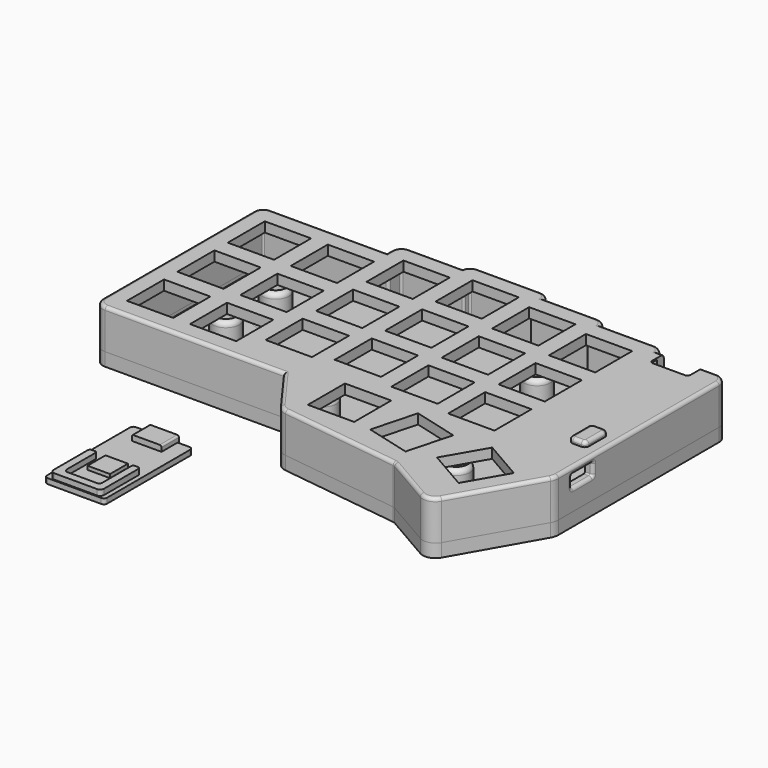
from build123d import *

# Parameters (mm, degrees)
PAD_DEPTH       = 4
POCKET_DEPTH    = 2
SKETCH119_R     = 4
PAD030_DEPTH    = 9
SKETCH118_R     = 3
POCKET028_DEPTH = 10
SKETCH120_R     = 1.9
PAD031_DEPTH    = 1.5
SKETCH121_R     = 1.39
POCKET029_DEPTH = 12.501
FILLET009_R     = 2
SKETCH125_R     = 5
POCKET030_DEPTH = 0.44
FILLET013_R     = 1.5
FILLET015_R     = 1.2
PAD028_DEPTH    = 13
POCKET021_DEPTH = 10
FILLET003_R     = 1
SKETCH111_W     = 14
SKETCH111_H     = 14
POCKET022_DEPTH = 3
POCKET023_DEPTH = 2.5
POCKET024_DEPTH = 2.5
POCKET025_DEPTH = 5
POCKET026_DEPTH = 5
FILLET_R        = 1
FILLET006_R     = 1
SKETCH079_R     = 3.331372
SKETCH079_R_2   = 1.7
SKETCH079_R_3   = 3.300093
SKETCH079_R_4   = 3.395712
SKETCH079_R_5   = 3.457296
PAD032_DEPTH    = 1.5
SKETCH126_R     = 1.7
POCKET031_DEPTH = 3
POCKET035_DEPTH = 5
SKETCH142_R     = 2
SKETCH142_R_2   = 1.7
POCKET036_DEPTH = 1
PAD034_DEPTH    = 1.6
SKETCH130_W     = 9
SKETCH130_H     = 6.1
POCKET032_DEPTH = 1.601
PAD035_DEPTH    = 6.6
SKETCH132_W     = 6.8
SKETCH132_H     = 6.8
PAD036_DEPTH    = 1.1
PAD037_DEPTH    = 3
SKETCH135_R     = 1.9
PAD038_DEPTH    = 0.9
SKETCH136_R     = 0.9
PAD039_DEPTH    = 4.9
FILLET011_R     = 0.2
POCKET034_DEPTH = 0.6
FILLET012_R     = 0.2
PAD040_DEPTH    = 2.5
PAD041_DEPTH    = 0.3
FILLET014_R     = 1


with BuildPart() as bottom:
    # Sketch108 → Pad (new body)
    with BuildSketch(Plane.XY.offset(8)):
        with BuildLine():
            Line((-0.575516, 59.75), (34.48, 59.75))
            Line((34.48, 59.75), (34.48, 61.417541))
            ThreePointArc((37.562459, 64.5), (35.382831, 63.597169), (34.48, 61.417541))
            Line((37.562459, 64.5), (53.574573, 64.5))
            ThreePointArc((56.476936, 66.75), (54.640757, 66.121623), (53.574573, 64.5))
            Line((56.476936, 66.75), (75.451105, 66.75))
            ThreePointArc((78.378139, 64.5), (77.297048, 66.1225), (75.451105, 66.75))
            Line((78.378139, 64.5), (94.392355, 64.5))
            ThreePointArc((97.364207, 62.25), (96.256115, 63.874052), (94.392355, 64.5))
            Line((97.364207, 62.25), (113.446584, 62.25))
            ThreePointArc((116.377091, 60), (115.293904, 61.622622), (113.446584, 62.25))
            Line((116.377091, 60), (134.174054, 60))
            ThreePointArc((137.23, 56.944054), (136.334934, 59.104934), (134.174054, 60))
            Line((137.23, 56.944054), (137.23, -3.799623))
            ThreePointArc((136.644911, -6.01003), (137.081252, -4.942889), (137.23, -3.799623))
            Line((136.644911, -6.01003), (122.927423, -30.106163))
            ThreePointArc((117.617268, -31.543823), (120.571558, -31.930167), (122.927423, -30.106163))
            Line((117.617268, -31.543823), (103.225679, -23.218082))
            ThreePointArc((103.225679, -23.218082), (102.921924, -23.080356), (102.597044, -23.004934))
            Line((102.597044, -23.004934), (66.238919, -18.276385))
            ThreePointArc((63.525255, -16.668331), (64.716751, -17.751369), (66.238919, -18.276385))
            Line((63.525255, -16.668331), (53.919223, -3.5))
            Line((53.919223, -3.5), (-0.150389, -3.5))
            ThreePointArc((-3.5, -0.150389), (-2.518922, -2.518922), (-0.150389, -3.5))
            Line((-3.5, -0.150389), (-3.5, 56.825516))
            ThreePointArc((-0.575516, 59.75), (-2.643438, 58.893438), (-3.5, 56.825516))
        make_face()
    extrude(amount=PAD_DEPTH)

    # Sketch058 (on Face28 of Pad) → Pocket (cut)
    with BuildSketch(Plane.XY.offset(12)):
        with BuildLine():
            Line((-0.575516, 57.25), (36.216867, 57.25))
            ThreePointArc((36.216867, 57.25), (36.756484, 57.473516), (36.98, 58.013133))
            Line((36.98, 58.013133), (36.98, 61.417541))
            ThreePointArc((37.562459, 62), (37.150598, 61.829402), (36.98, 61.417541))
            Line((37.562459, 62), (55.416409, 62))
            ThreePointArc((55.416409, 62), (55.814928, 62.165072), (55.98, 62.563591))
            Line((55.98, 62.563591), (55.98, 63.753064))
            ThreePointArc((56.476936, 64.25), (56.125549, 64.104451), (55.98, 63.753064))
            Line((56.476936, 64.25), (75.451105, 64.25))
            ThreePointArc((75.98, 63.721105), (75.82509, 64.09509), (75.451105, 64.25))
            Line((75.98, 63.721105), (75.98, 62.491748))
            ThreePointArc((75.98, 62.491748), (76.12403, 62.14403), (76.471748, 62))
            Line((76.471748, 62), (94.392355, 62))
            ThreePointArc((94.98, 61.412355), (94.807883, 61.827883), (94.392355, 62))
            Line((94.98, 61.412355), (94.98, 60.193253))
            ThreePointArc((94.98, 60.193253), (95.109826, 59.879826), (95.423253, 59.75))
            Line((95.423253, 59.75), (113.446584, 59.75))
            ThreePointArc((113.98, 59.216584), (113.823766, 59.593766), (113.446584, 59.75))
            Line((113.98, 59.216584), (113.98, 57.753983))
            ThreePointArc((113.98, 57.753983), (114.05439, 57.57439), (114.233983, 57.5))
            Line((114.233983, 57.5), (134.174054, 57.5))
            ThreePointArc((134.73, 56.944054), (134.567167, 57.337167), (134.174054, 57.5))
            Line((134.73, 56.944054), (134.73, -3.799623))
            ThreePointArc((134.472296, -4.7732), (134.664484, -4.303176), (134.73, -3.799623))
            Line((134.472296, -4.7732), (120.754809, -28.869334))
            ThreePointArc((118.869156, -29.379851), (119.918234, -29.517043), (120.754809, -28.869334))
            Line((118.869156, -29.379851), (104.477568, -21.05411))
            ThreePointArc((104.477568, -21.05411), (103.724696, -20.71275), (102.919466, -20.525812))
            Line((102.919466, -20.525812), (66.56134, -15.797263))
            ThreePointArc((65.544973, -15.194987), (65.991232, -15.600625), (66.56134, -15.797263))
            Line((65.544973, -15.194987), (55.506924, -1.434431))
            ThreePointArc((55.506924, -1.434431), (55.131639, -1.114841), (54.652277, -1))
            Line((54.652277, -1), (-0.150389, -1))
            ThreePointArc((-1, -0.150389), (-0.751155, -0.751155), (-0.150389, -1))
            Line((-1, -0.150389), (-1, 56.825516))
            ThreePointArc((-0.575516, 57.25), (-0.875672, 57.125672), (-1, 56.825516))
        make_face()
    extrude(amount=-POCKET_DEPTH, mode=Mode.SUBTRACT)

    # Sketch119 (on Face65 of Pocket) → Pad030 (join)
    with BuildSketch(Plane.XY.offset(10)):
        with Locations((18.610502, 37.490503)):
            Circle(SKETCH119_R)
        with Locations((18.589413, 18.74788)):
            Circle(SKETCH119_R)
        with Locations((61.833103, 1.49994)):
            Circle(SKETCH119_R)
        with Locations((108.311136, -6.255085)):
            Circle(SKETCH119_R)
        with Locations((94.543887, 41.486972)):
            Circle(SKETCH119_R)
    extrude(amount=PAD030_DEPTH)

    # Sketch118 (on Face4 of Pad030) → Pocket028 (cut)
    with BuildSketch(Plane.XY.offset(8)):
        with Locations((18.610502, 37.490503)):
            Circle(SKETCH118_R)
        with Locations((18.589413, 18.74788)):
            Circle(SKETCH118_R)
        with Locations((61.833103, 1.49994)):
            Circle(SKETCH118_R)
        with Locations((108.311136, -6.255085)):
            Circle(SKETCH118_R)
        with Locations((94.543887, 41.486972)):
            Circle(SKETCH118_R)
    extrude(amount=POCKET028_DEPTH, mode=Mode.SUBTRACT)

    # Sketch120 (on Face83 of Pocket028) → Pad031 (join)
    with BuildSketch(Plane.XY.offset(19)):
        with Locations((18.589413, 18.74788)):
            Circle(SKETCH120_R)
        with Locations((18.610502, 37.490503)):
            Circle(SKETCH120_R)
        with Locations((94.543887, 41.486972)):
            Circle(SKETCH120_R)
        with Locations((108.311136, -6.255085)):
            Circle(SKETCH120_R)
        with Locations((61.833103, 1.49994)):
            Circle(SKETCH120_R)
    extrude(amount=PAD031_DEPTH)

    # Sketch121 (on Face94 of Pad031) → Pocket029 (cut, through all)
    with BuildSketch(Plane.XY.offset(20.5)):
        with Locations((18.610502, 37.490503)):
            Circle(SKETCH121_R)
        with Locations((18.589413, 18.74788)):
            Circle(SKETCH121_R)
        with Locations((94.543887, 41.486972)):
            Circle(SKETCH121_R)
        with Locations((61.833103, 1.49994)):
            Circle(SKETCH121_R)
        with Locations((108.311136, -6.255085)):
            Circle(SKETCH121_R)
    extrude(amount=-POCKET029_DEPTH, mode=Mode.SUBTRACT)

    # Fillet009
    fillet009_edges = [bottom.edges().sort_by_distance(p)[0] for p in [
        (14.589413, 18.74788, 10),
        (90.543887, 41.486972, 10),
        (57.833103, 1.49994, 10),
        (104.311136, -6.255085, 10),
        (14.610502, 37.490503, 10),
    ]]
    fillet(fillet009_edges, radius=FILLET009_R)

    # Sketch125 (on Face4 of Pocket029) → Pocket030 (cut)
    with BuildSketch(Plane(origin=(0, 0, 8), x_dir=(1, 0, 0), z_dir=(0, 0, -1))):
        with Locations((5.419504, -5.470643)):
            Circle(SKETCH125_R)
        with Locations((5.419504, -50.996956)):
            Circle(SKETCH125_R)
        with Locations((69.720607, -25.963334)):
            Circle(SKETCH125_R)
        with Locations((115.074272, 17.04775)):
            Circle(SKETCH125_R)
        with Locations((123.885826, -50.017891)):
            Circle(SKETCH125_R)
    extrude(amount=-POCKET030_DEPTH, mode=Mode.SUBTRACT)

    # Fillet013
    fillet013_edges = [bottom.edges().sort_by_distance(p)[0] for p in [
        (14.589413, 18.74788, 19),
        (57.833103, 1.49994, 19),
        (14.610502, 37.490503, 19),
        (104.311136, -6.255085, 19),
        (90.543887, 41.486972, 19),
    ]]
    fillet(fillet013_edges, radius=FILLET013_R)

    # Fillet015
    fillet015_edges = [bottom.edges().sort_by_distance(p)[0] for p in [
        (91.543887, 41.486972, 8),
        (15.610502, 37.490503, 8),
        (15.589413, 18.74788, 8),
        (58.833103, 1.49994, 8),
        (105.311136, -6.255085, 8),
    ]]
    fillet(fillet015_edges, radius=FILLET015_R)


with BuildPart() as bottom_1:
    # Body007 placement: moved
    add(bottom.part.moved(Location((0, 0, -3))))


with BuildPart() as top:
    # Sketch110 → Pad028 (new body)
    with BuildSketch(Plane.XY.offset(8)):
        with BuildLine():
            Line((-0.575516, 59.75), (34.48, 59.75))
            Line((34.48, 59.75), (34.48, 61.417541))
            ThreePointArc((37.562459, 64.5), (35.382831, 63.597169), (34.48, 61.417541))
            Line((37.562459, 64.5), (53.574573, 64.5))
            ThreePointArc((56.476936, 66.75), (54.640757, 66.121623), (53.574573, 64.5))
            Line((56.476936, 66.75), (75.451105, 66.75))
            ThreePointArc((78.378139, 64.5), (77.297048, 66.1225), (75.451105, 66.75))
            Line((78.378139, 64.5), (94.392355, 64.5))
            ThreePointArc((97.364207, 62.25), (96.256115, 63.874052), (94.392355, 64.5))
            Line((97.364207, 62.25), (113.446584, 62.25))
            ThreePointArc((116.377091, 60), (115.293904, 61.622622), (113.446584, 62.25))
            Line((116.377091, 60), (134.174054, 60))
            ThreePointArc((137.23, 56.944054), (136.334934, 59.104934), (134.174054, 60))
            Line((137.23, 56.944054), (137.23, -3.799623))
            ThreePointArc((136.644911, -6.01003), (137.081252, -4.942889), (137.23, -3.799623))
            Line((136.644911, -6.01003), (122.927423, -30.106163))
            ThreePointArc((117.617268, -31.543823), (120.571558, -31.930167), (122.927423, -30.106163))
            Line((117.617268, -31.543823), (103.225679, -23.218082))
            ThreePointArc((103.225679, -23.218082), (102.921924, -23.080356), (102.597044, -23.004934))
            Line((102.597044, -23.004934), (66.238919, -18.276385))
            ThreePointArc((63.525255, -16.668331), (64.716751, -17.751369), (66.238919, -18.276385))
            Line((63.525255, -16.668331), (53.919223, -3.5))
            Line((53.919223, -3.5), (-0.150389, -3.5))
            ThreePointArc((-3.5, -0.150389), (-2.518922, -2.518922), (-0.150389, -3.5))
            Line((-3.5, -0.150389), (-3.5, 56.825516))
            ThreePointArc((-0.575516, 59.75), (-2.643438, 58.893438), (-3.5, 56.825516))
        make_face()
    extrude(amount=PAD028_DEPTH)

    # Sketch109 (on Face28 of Pad028) → Pocket021 (cut)
    with BuildSketch(Plane.XY.offset(8)):
        with BuildLine():
            Line((-0.575516, 57.25), (36.216867, 57.25))
            ThreePointArc((36.216867, 57.25), (36.756484, 57.473516), (36.98, 58.013133))
            Line((36.98, 58.013133), (36.98, 61.417541))
            ThreePointArc((37.562459, 62), (37.150598, 61.829402), (36.98, 61.417541))
            Line((37.562459, 62), (55.416409, 62))
            ThreePointArc((55.416409, 62), (55.814928, 62.165072), (55.98, 62.563591))
            Line((55.98, 62.563591), (55.98, 63.753064))
            ThreePointArc((56.476936, 64.25), (56.125549, 64.104451), (55.98, 63.753064))
            Line((56.476936, 64.25), (75.451105, 64.25))
            ThreePointArc((75.98, 63.721105), (75.82509, 64.09509), (75.451105, 64.25))
            Line((75.98, 63.721105), (75.98, 62.491748))
            ThreePointArc((75.98, 62.491748), (76.12403, 62.14403), (76.471748, 62))
            Line((76.471748, 62), (94.392355, 62))
            ThreePointArc((94.98, 61.412355), (94.807883, 61.827883), (94.392355, 62))
            Line((94.98, 61.412355), (94.98, 60.193253))
            ThreePointArc((94.98, 60.193253), (95.109826, 59.879826), (95.423253, 59.75))
            Line((95.423253, 59.75), (113.446584, 59.75))
            ThreePointArc((113.98, 59.216584), (113.823766, 59.593766), (113.446584, 59.75))
            Line((113.98, 59.216584), (113.98, 57.753983))
            ThreePointArc((113.98, 57.753983), (114.05439, 57.57439), (114.233983, 57.5))
            Line((114.233983, 57.5), (134.174054, 57.5))
            ThreePointArc((134.73, 56.944054), (134.567167, 57.337167), (134.174054, 57.5))
            Line((134.73, 56.944054), (134.73, -3.799623))
            ThreePointArc((134.472296, -4.7732), (134.664484, -4.303176), (134.73, -3.799623))
            Line((134.472296, -4.7732), (120.754809, -28.869334))
            ThreePointArc((118.869156, -29.379851), (119.918234, -29.517043), (120.754809, -28.869334))
            Line((118.869156, -29.379851), (104.477568, -21.05411))
            ThreePointArc((104.477568, -21.05411), (103.724696, -20.71275), (102.919466, -20.525812))
            Line((102.919466, -20.525812), (66.56134, -15.797263))
            ThreePointArc((65.544973, -15.194987), (65.991232, -15.600625), (66.56134, -15.797263))
            Line((65.544973, -15.194987), (55.506924, -1.434431))
            ThreePointArc((55.506924, -1.434431), (55.131639, -1.114841), (54.652277, -1))
            Line((54.652277, -1), (-0.150389, -1))
            ThreePointArc((-1, -0.150389), (-0.751155, -0.751155), (-0.150389, -1))
            Line((-1, -0.150389), (-1, 56.825516))
            ThreePointArc((-0.575516, 57.25), (-0.875672, 57.125672), (-1, 56.825516))
        make_face()
    extrude(amount=POCKET021_DEPTH, mode=Mode.SUBTRACT)

    # Fillet003
    fillet003_edges = [top.edges().sort_by_distance(p)[0] for p in [
        (26.884417, -3.5, 21),
        (-2.518922, -2.518922, 21),
        (-3.5, 28.337563, 21),
        (58.722239, -10.084165, 21),
        (64.716751, -17.751369, 21),
        (84.417981, -20.640659, 21),
        (102.921924, -23.080356, 21),
        (110.421473, -27.380952, 21),
        (120.571558, -31.930167, 21),
        (129.786167, -18.058096, 21),
        (137.081252, -4.942889, 21),
        (137.23, 26.572216, 21),
        (136.334934, 59.104934, 21),
        (125.275573, 60, 21),
        (115.293904, 61.622622, 21),
        (105.405395, 62.25, 21),
        (96.256115, 63.874052, 21),
        (86.385247, 64.5, 21),
        (77.297048, 66.1225, 21),
        (65.964021, 66.75, 21),
        (54.640757, 66.121623, 21),
        (45.568516, 64.5, 21),
        (35.382831, 63.597169, 21),
        (34.48, 60.58377, 21),
        (16.952242, 59.75, 21),
        (-2.643438, 58.893438, 21),
    ]]
    fillet(fillet003_edges, radius=FILLET003_R)

    # Sketch111 (on Face8 of Fillet003) → Pocket022 (cut)
    with BuildSketch(Plane.XY.offset(21)):
        with Locations((75.62, -5.79)):
            Rectangle(SKETCH111_W, SKETCH111_H)
        Polygon((91.629303, 0.089303), (105.156052, -3.52), (101.546749, -17.046749), (88.02, -13.437445), align=None)
        Polygon((116.274632, -2.66), (128.398988, -9.66), (121.398988, -21.784355), (109.276749, -14.785577), align=None)
        with Locations((9.02, 47.16)):
            Rectangle(SKETCH111_W, SKETCH111_H)
        with Locations((9.02, 9.06)):
            Rectangle(SKETCH111_W, SKETCH111_H)
        with Locations((28.07, 47.16)):
            Rectangle(SKETCH111_W, SKETCH111_H)
        with Locations((28.07, 9.06)):
            Rectangle(SKETCH111_W, SKETCH111_H)
        with Locations((9.02, 28.11)):
            Rectangle(SKETCH111_W, SKETCH111_H)
        with Locations((47.12, 51.97)):
            Rectangle(SKETCH111_W, SKETCH111_H)
        with Locations((47.12, 13.87)):
            Rectangle(SKETCH111_W, SKETCH111_H)
        with Locations((66.17, 54.27)):
            Rectangle(SKETCH111_W, SKETCH111_H)
        with Locations((66.17, 16.17)):
            Rectangle(SKETCH111_W, SKETCH111_H)
        with Locations((85.22, 51.87)):
            Rectangle(SKETCH111_W, SKETCH111_H)
        with Locations((85.22, 13.77)):
            Rectangle(SKETCH111_W, SKETCH111_H)
        with Locations((104.27, 49.54)):
            Rectangle(SKETCH111_W, SKETCH111_H)
        with Locations((47.12, 32.92)):
            Rectangle(SKETCH111_W, SKETCH111_H)
        with Locations((66.17, 35.22)):
            Rectangle(SKETCH111_W, SKETCH111_H)
        with Locations((28.07, 28.11)):
            Rectangle(SKETCH111_W, SKETCH111_H)
        with Locations((104.27, 30.49)):
            Rectangle(SKETCH111_W, SKETCH111_H)
        with Locations((104.27, 11.44)):
            Rectangle(SKETCH111_W, SKETCH111_H)
        with Locations((85.22, 32.82)):
            Rectangle(SKETCH111_W, SKETCH111_H)
    extrude(amount=-POCKET022_DEPTH, mode=Mode.SUBTRACT)

    # Sketch114 (on Face31 of Pocket022) → Pocket023 (cut)
    with BuildSketch(Plane(origin=(137.23, 0, 8), x_dir=(0, 1, 0), z_dir=(1, 0, 0))):
        with BuildLine():
            Line((1.24469, 10.438636), (1.24469, 7.69946))
            ThreePointArc((1.24469, 7.69946), (1.361847, 7.416618), (1.64469, 7.29946))
            Line((1.64469, 7.29946), (8.89469, 7.29946))
            ThreePointArc((8.89469, 7.29946), (9.177533, 7.416618), (9.29469, 7.69946))
            Line((9.29469, 10.438636), (9.29469, 7.69946))
            ThreePointArc((9.29469, 10.438636), (9.177533, 10.721479), (8.89469, 10.838636))
            Line((1.64469, 10.838636), (8.89469, 10.838636))
            ThreePointArc((1.64469, 10.838636), (1.361847, 10.721479), (1.24469, 10.438636))
        make_face()
    extrude(amount=-POCKET023_DEPTH, mode=Mode.SUBTRACT)

    # Sketch115 (on Face183 of Pocket023) → Pocket024 (cut)
    with BuildSketch(Plane(origin=(0, 0, 18), x_dir=(1, 0, 0), z_dir=(0, 0, -1))):
        with BuildLine():
            ThreePointArc((134.174054, -57.5), (134.567167, -57.337167), (134.73, -56.944054))
            Line((134.73, -1.229511), (134.73, -56.944054))
            ThreePointArc((134.73, -1.229511), (120.699206, -7.153829), (114.919113, -21.244651))
            Line((114.919113, -21.244651), (114.919113, -57.5))
            Line((114.919113, -57.5), (134.174054, -57.5))
        make_face()
    extrude(amount=-POCKET024_DEPTH, mode=Mode.SUBTRACT)

    # Sketch116 (on Face28 of Pocket024) → Pocket025 (cut)
    with BuildSketch(Plane(origin=(0, 60, 8), x_dir=(-1, 0, 0), z_dir=(0, 1, 0))):
        with BuildLine():
            Line((-129.964948, 12.045402), (-119.170193, 12.045402))
            ThreePointArc((-118.364948, 11.240157), (-118.600799, 11.809551), (-119.170193, 12.045402))
            Line((-118.364948, 11.240157), (-118.364948, 7.850647))
            ThreePointArc((-119.170193, 7.045402), (-118.600799, 7.281253), (-118.364948, 7.850647))
            Line((-119.170193, 7.045402), (-128.964948, 7.045402))
            ThreePointArc((-129.964948, 8.045402), (-129.672055, 7.338295), (-128.964948, 7.045402))
            Line((-129.964948, 8.045402), (-129.964948, 12.045402))
        make_face()
    extrude(amount=-POCKET025_DEPTH, mode=Mode.SUBTRACT)

    # Sketch (on Face8 of Pocket025) → Pocket026 (cut)
    with BuildSketch(Plane.XY.offset(21)):
        with BuildLine():
            Line((132.567991, 18.705294), (129.668313, 18.705294))
            ThreePointArc((129.668313, 18.705294), (129.102628, 18.470979), (128.868313, 17.905294))
            Line((128.868313, 17.905294), (128.868313, 12.505294))
            ThreePointArc((128.868313, 12.505294), (129.102628, 11.939609), (129.668313, 11.705294))
            Line((132.567991, 11.705294), (129.668313, 11.705294))
            ThreePointArc((132.567991, 11.705294), (133.133676, 11.939609), (133.367991, 12.505294))
            Line((133.367991, 17.905294), (133.367991, 12.505294))
            ThreePointArc((133.367991, 17.905294), (133.133676, 18.470979), (132.567991, 18.705294))
        make_face()
    extrude(amount=-POCKET026_DEPTH, mode=Mode.SUBTRACT)

    # Fillet
    fillet_edges = [top.edges().sort_by_distance(p)[0] for p in [
        (84.417981, -20.640659, 8),
        (102.921924, -23.080356, 8),
        (110.421473, -27.380952, 8),
        (120.571558, -31.930167, 8),
        (129.786167, -18.058096, 8),
        (137.081252, -4.942889, 8),
        (137.23, 26.572216, 8),
        (136.334934, 59.104934, 8),
        (125.275573, 60, 8),
        (115.293904, 61.622622, 8),
        (105.405395, 62.25, 8),
        (96.256115, 63.874052, 8),
        (86.385247, 64.5, 8),
        (77.297048, 66.1225, 8),
        (65.964021, 66.75, 8),
        (54.640757, 66.121623, 8),
        (45.568516, 64.5, 8),
        (35.382831, 63.597169, 8),
        (34.48, 60.58377, 8),
        (16.952242, 59.75, 8),
        (-2.643438, 58.893438, 8),
        (-3.5, 28.337563, 8),
        (-2.518922, -2.518922, 8),
        (26.884417, -3.5, 8),
        (58.722239, -10.084165, 8),
        (64.716751, -17.751369, 8),
    ]]
    fillet(fillet_edges, radius=FILLET_R)

    # Fillet006
    fillet006_edges = [top.edges().sort_by_distance(p)[0] for p in [
        (137.23, 5.26969, 15.29946),
    ]]
    fillet(fillet006_edges, radius=FILLET006_R)

    # Sketch079 → Pad032 (join)
    with BuildSketch(Plane(origin=(0, 0, 18), x_dir=(1, 0, 0), z_dir=(0, 0, -1))):
        with Locations((18.6, -18.76)):
            Circle(SKETCH079_R)
        with Locations((18.6, -18.76)):
            Circle(SKETCH079_R_2, mode=Mode.SUBTRACT)
        with Locations((18.61, -37.509997)):
            Circle(SKETCH079_R_3)
        with Locations((18.61, -37.509997)):
            Circle(SKETCH079_R_2, mode=Mode.SUBTRACT)
        with Locations((61.84, -1.51)):
            Circle(SKETCH079_R_4)
        with Locations((61.84, -1.51)):
            Circle(SKETCH079_R_2, mode=Mode.SUBTRACT)
        with Locations((108.3, 6.24)):
            Circle(SKETCH079_R_5)
        with Locations((108.3, 6.24)):
            Circle(SKETCH079_R_2, mode=Mode.SUBTRACT)
        with BuildLine():
            ThreePointArc((97.772053, -42.54), (96.354244, -38.635051), (92.22, -39.043513))
            Line((92.22, -39.043513), (92.22, -39.820001))
            Line((91.61047, -39.820001), (92.22, -39.820001))
            ThreePointArc((91.61047, -39.820001), (92.699249, -44.333867), (97.269999, -43.516144))
            Line((97.269999, -42.54), (97.269999, -43.516144))
            Line((97.772053, -42.54), (97.269999, -42.54))
        make_face()
        with Locations((94.55, -41.5)):
            Circle(SKETCH079_R_2, mode=Mode.SUBTRACT)
    extrude(amount=PAD032_DEPTH)

    # Sketch126 (on Face251 of Pad032) → Pocket031 (cut)
    with BuildSketch(Plane(origin=(0, 0, 16.5), x_dir=(1, 0, 0), z_dir=(0, 0, -1))):
        with Locations((94.55, -41.5)):
            Circle(SKETCH126_R)
        with Locations((18.61, -37.509997)):
            Circle(SKETCH126_R)
        with Locations((18.6, -18.76)):
            Circle(SKETCH126_R)
        with Locations((61.84, -1.51)):
            Circle(SKETCH126_R)
        with Locations((108.3, 6.24)):
            Circle(SKETCH126_R)
    extrude(amount=-POCKET031_DEPTH, mode=Mode.SUBTRACT)

    # Sketch141 → Pocket035 (cut)
    with BuildSketch(Plane.XY.offset(21)):
        with BuildLine():
            Line((118.050286, 60), (118.050286, 55.686665))
            ThreePointArc((118.050286, 55.686665), (118.34318, 54.979559), (119.050286, 54.686665))
            Line((119.050286, 54.686665), (128.650286, 54.686665))
            ThreePointArc((128.650286, 54.686665), (129.357393, 54.979559), (129.650286, 55.686665))
            Line((129.650286, 55.686665), (129.650286, 60))
            Line((129.650286, 60), (118.050286, 60))
        make_face()
    extrude(amount=-POCKET035_DEPTH, mode=Mode.SUBTRACT)

    # Sketch142 (on Face256 of Pocket035) → Pocket036 (cut)
    with BuildSketch(Plane(origin=(0, 0, 16.5), x_dir=(1, 0, 0), z_dir=(0, 0, -1))):
        with Locations((94.55, -41.5)):
            Circle(SKETCH142_R)
        with Locations((18.6, -18.76)):
            Circle(SKETCH142_R)
        with Locations((18.61, -37.509997)):
            Circle(SKETCH142_R)
        with Locations((61.84, -1.51)):
            Circle(SKETCH142_R)
        with Locations((108.3, 6.24)):
            Circle(SKETCH142_R)
        with Locations((108.3, 6.24)):
            Circle(SKETCH142_R_2, mode=Mode.SUBTRACT)
    extrude(amount=-POCKET036_DEPTH, mode=Mode.SUBTRACT)


with BuildPart() as obj1:
    # Sketch128 → Pad034 (new body)
    with BuildSketch(Plane.XY):
        with BuildLine():
            Line((20.774644, -17.988873), (36.974644, -17.988873))
            ThreePointArc((37.974644, -18.988873), (37.681751, -18.281766), (36.974644, -17.988873))
            Line((37.974644, -18.988873), (37.974644, -50.388873))
            ThreePointArc((36.974644, -51.388873), (37.681751, -51.095979), (37.974644, -50.388873))
            Line((36.974644, -51.388873), (20.774644, -51.388873))
            ThreePointArc((19.774644, -50.388873), (20.067537, -51.095979), (20.774644, -51.388873))
            Line((19.774644, -50.388873), (19.774644, -18.988873))
            ThreePointArc((20.774644, -17.988873), (20.067537, -18.281766), (19.774644, -18.988873))
        make_face()
    extrude(amount=PAD034_DEPTH)

    # Sketch130 (on Face9 of Pad034) → Pocket032 (cut, through all)
    with BuildSketch(Plane(origin=(0, 0, 0), x_dir=(1, 0, 0), z_dir=(0, 0, -1))):
        with Locations((28.874644, 21.038873)):
            Rectangle(SKETCH130_W, SKETCH130_H)
    extrude(amount=-POCKET032_DEPTH, mode=Mode.SUBTRACT)

    # Sketch131 (on Face9 of Pocket032) → Pad035 (join)
    with BuildSketch(Plane(origin=(0, -24.088873, 0), x_dir=(-1, 0, 0), z_dir=(0, 1, 0))):
        with BuildLine():
            ThreePointArc((-33.374644, 0.524237), (-33.221099, 0.153545), (-32.850407, 0))
            Line((-24.898881, 0), (-32.850407, 0))
            ThreePointArc((-24.898881, 0), (-24.528189, 0.153545), (-24.374644, 0.524237))
            Line((-24.374644, 2.775763), (-24.374644, 0.524237))
            ThreePointArc((-24.374644, 2.775763), (-24.528189, 3.146455), (-24.898881, 3.3))
            Line((-32.850407, 3.3), (-24.898881, 3.3))
            ThreePointArc((-32.850407, 3.3), (-33.221099, 3.146455), (-33.374644, 2.775763))
            Line((-33.374644, 0.524237), (-33.374644, 2.775763))
        make_face()
    extrude(amount=PAD035_DEPTH)

    # Sketch132 (on Face5 of Pad035) → Pad036 (join)
    with BuildSketch(Plane.XY.offset(1.6)):
        with Locations((28.874644, -38.788873)):
            Rectangle(SKETCH132_W, SKETCH132_H)
    extrude(amount=PAD036_DEPTH)

    # Sketch133 (on Face29 of Pad036) → Pad037 (join)
    with BuildSketch(Plane.XY.offset(3.3)):
        with BuildLine():
            Line((21.256197, -49.832661), (21.256197, -36.914709))
            ThreePointArc((22.031635, -36.139271), (21.483318, -36.366392), (21.256197, -36.914709))
            Line((22.031635, -36.139271), (22.865667, -36.139271))
            ThreePointArc((23.536118, -36.809722), (23.339747, -36.335642), (22.865667, -36.139271))
            Line((23.536118, -47.50549), (23.536118, -36.809722))
            ThreePointArc((23.536118, -47.50549), (23.865303, -48.300214), (24.660027, -48.629399))
            Line((24.660027, -48.629399), (33.435584, -48.629399))
            ThreePointArc((33.435584, -48.629399), (34.090634, -48.358069), (34.361964, -47.703019))
            Line((34.361964, -36.770086), (34.361964, -47.703019))
            ThreePointArc((34.992779, -36.139271), (34.546725, -36.324032), (34.361964, -36.770086))
            Line((34.992779, -36.139271), (35.987766, -36.139271))
            ThreePointArc((36.582035, -36.73354), (36.407978, -36.313328), (35.987766, -36.139271))
            Line((36.582035, -36.73354), (36.582035, -49.818855))
            ThreePointArc((35.39258, -51.00831), (36.233652, -50.659927), (36.582035, -49.818855))
            Line((22.431846, -51.00831), (35.39258, -51.00831))
            ThreePointArc((21.256197, -49.832661), (21.600537, -50.66397), (22.431846, -51.00831))
        make_face()
    extrude(amount=-PAD037_DEPTH)


with BuildPart() as tornillo:
    # Sketch135 → Pad038 (new body)
    with BuildSketch(Plane.XY):
        with Locations((-60.981449, 52.607174)):
            Circle(SKETCH135_R)
    extrude(amount=PAD038_DEPTH)

    # Sketch136 (on Face3 of Pad038) → Pad039 (join)
    with BuildSketch(Plane.XY.offset(0.9)):
        with Locations((-60.981449, 52.607174)):
            Circle(SKETCH136_R)
    extrude(amount=PAD039_DEPTH)

    # Fillet011
    fillet011_edges = [tornillo.edges().sort_by_distance(p)[0] for p in [
        (-62.881449, 52.607174, 0.9),
        (-62.881449, 52.607174, 0),
    ]]
    fillet(fillet011_edges, radius=FILLET011_R)

    # Sketch137 (on Face4 of Fillet011) → Pocket034 (cut)
    with BuildSketch(Plane(origin=(0, 0, 0), x_dir=(1, 0, 0), z_dir=(0, 0, -1))):
        Polygon((-60.255833, -53.116116), (-60.177884, -52.233243), (-60.9035, -51.724301), (-61.707065, -52.098232), (-61.785014, -52.981105), (-61.059398, -53.490047), align=None)
    extrude(amount=-POCKET034_DEPTH, mode=Mode.SUBTRACT)

    # Fillet012
    fillet012_edges = [tornillo.edges().sort_by_distance(p)[0] for p in [
        (-61.881449, 52.607174, 5.8),
    ]]
    fillet(fillet012_edges, radius=FILLET012_R)


with BuildPart() as tornillo_1:
    # Body010 placement: moved
    add(tornillo.part.moved(Location((79.6, -15.1, 13.4))))


with BuildPart() as obj2:
    # Sketch138 → Pad040 (new body)
    with BuildSketch(Plane.XY):
        with BuildLine():
            ThreePointArc((129.871334, 19.392166), (128.963965, 19.016321), (128.58812, 18.108952))
            Line((128.58812, 12.101815), (128.58812, 18.108952))
            ThreePointArc((128.58812, 12.101815), (128.963965, 11.194446), (129.871334, 10.818601))
            Line((132.437763, 10.818601), (129.871334, 10.818601))
            ThreePointArc((132.437763, 10.818601), (133.345133, 11.194446), (133.720978, 12.101815))
            Line((133.720978, 18.108952), (133.720978, 12.101815))
            ThreePointArc((133.720978, 18.108952), (133.345133, 19.016321), (132.437763, 19.392166))
            Line((129.871334, 19.392166), (132.437763, 19.392166))
        make_face()
    extrude(amount=PAD040_DEPTH)

    # Sketch139 → Pad041 (join)
    with BuildSketch(Plane.XY):
        with BuildLine():
            Line((131.672638, 19.931404), (126.887237, 19.931404))
            ThreePointArc((126.887237, 19.931404), (126.382397, 19.722293), (126.173286, 19.217453))
            Line((126.173286, 19.217453), (126.173286, 10.989182))
            ThreePointArc((126.173286, 10.989182), (126.365039, 10.526251), (126.82797, 10.334498))
            Line((126.82797, 10.334498), (131.741671, 10.334498))
            ThreePointArc((131.741671, 10.334498), (132.16911, 10.511549), (132.346161, 10.938988))
            Line((132.346161, 10.938988), (132.346161, 19.257881))
            ThreePointArc((132.346161, 19.257881), (132.148891, 19.734134), (131.672638, 19.931404))
        make_face()
    extrude(amount=PAD041_DEPTH)

    # Fillet014
    fillet014_edges = [obj2.edges().sort_by_distance(p)[0] for p in [
        (128.58812, 15.105384, 2.5),
    ]]
    fillet(fillet014_edges, radius=FILLET014_R)


with BuildPart() as obj2_1:
    # Body011 placement: moved
    add(obj2.part.moved(Location((0, 0, 20))))


solid = Compound([bottom_1.part, top.part, obj1.part, tornillo_1.part, obj2_1.part])
